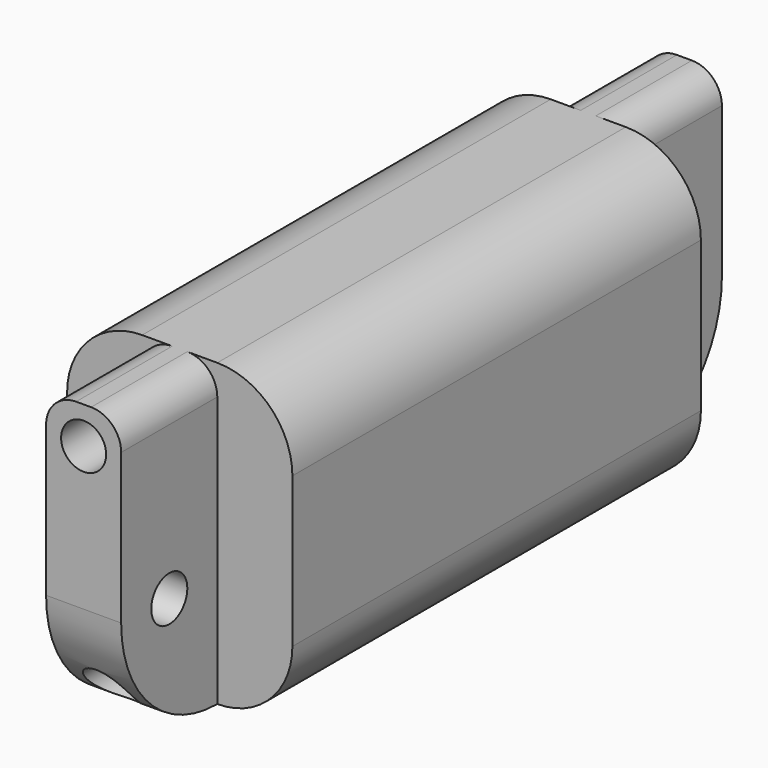
from build123d import *

# Parameters (mm, degrees)
F1_DEPTH = 20
F2_R     = 8
F3_R     = 5
F4_R     = 2
F5_R     = 1.5
F6_DEPTH = 50
F7_R     = 1.5
F8_DEPTH = 82.9


with BuildPart() as f1:
    # F0 (on Top) → F1 (new body)
    with BuildSketch(Plane.XY):
        Polygon((33.438562, 71.225935), (28.438562, 71.225935), (28.438562, 63.225935), (23.438562, 63.225935), (23.438562, 29.225935), (28.438562, 29.225935), (28.438562, 21.225935), (33.438562, 21.225935), (33.438562, 29.225935), (38.438562, 29.225935), (38.438562, 63.225935), (33.438562, 63.225935), align=None)
    extrude(amount=F1_DEPTH)

    # F2
    f2_edges = [f1.edges().sort_by_distance(p)[0] for p in [
        (30.938562, 21.225935, 0),
        (30.938562, 71.225935, 0),
    ]]
    fillet(f2_edges, radius=F2_R)

    # F3
    f3_edges = [f1.edges().sort_by_distance(p)[0] for p in [
        (38.438562, 46.225935, 20),
        (23.438562, 46.225935, 20),
        (38.438562, 46.225935, 0),
        (23.438562, 46.225935, 0),
    ]]
    fillet(f3_edges, radius=F3_R)

    # F4
    f4_edges = [f1.edges().sort_by_distance(p)[0] for p in [
        (33.438562, 25.225935, 20),
        (33.438562, 67.225935, 20),
        (28.438562, 67.225935, 20),
        (28.438562, 25.225935, 20),
    ]]
    fillet(f4_edges, radius=F4_R)

    # F5 (on Right) → F6 (cut)
    with BuildSketch(Plane.YZ):
        with Locations((67.979599, 6.239843)):
            Circle(F5_R)
        with Locations((25.230938, 7.8)):
            Circle(F5_R)
    extrude(amount=F6_DEPTH, mode=Mode.SUBTRACT)

    # F7 (on Front) → F8 (cut)
    with BuildSketch(Plane.XZ):
        with Locations((30.938562, 17.55051)):
            Circle(F7_R)
        with Locations((30.933637, 2.5)):
            Circle(F7_R)
    extrude(amount=-F8_DEPTH, mode=Mode.SUBTRACT)


solid = f1.part
